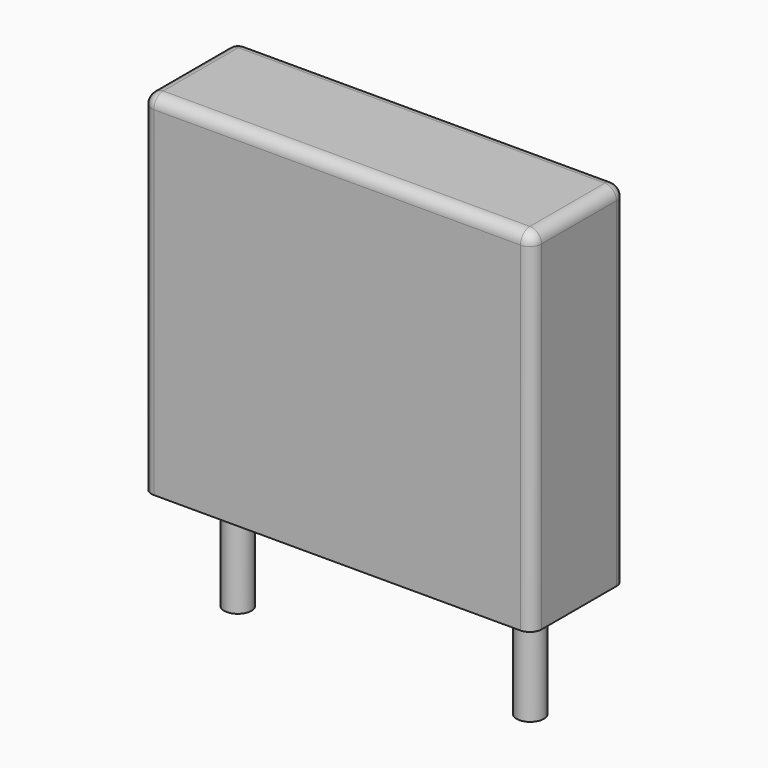
from build123d import *

# Parameters (mm, degrees)
SKETCH_W     = 10
SKETCH_H     = 3
PAD_DEPTH    = 9
FILLET_R     = 0.3
SKETCH001_R  = 0.35
PAD001_DEPTH = 3.2


with BuildPart() as fillet_body:
    # Sketch → Pad (new body)
    with BuildSketch(Plane.XY.offset(0.1)):
        with Locations((3.75, 0)):
            Rectangle(SKETCH_W, SKETCH_H)
    extrude(amount=PAD_DEPTH)

    # Fillet
    fillet_edges = [fillet_body.edges().sort_by_distance(p)[0] for p in [
        (-1.25, 0, 9.1),
        (-1.25, -1.5, 4.6),
        (3.75, -1.5, 9.1),
        (8.75, -1.5, 4.6),
        (8.75, 0, 9.1),
        (8.75, 1.5, 4.6),
        (3.75, 1.5, 9.1),
        (-1.25, 1.5, 4.6),
    ]]
    fillet(fillet_edges, radius=FILLET_R)


with BuildPart() as pad001:
    # Sketch001 → Pad001 (new body)
    with BuildSketch(Plane.XY.offset(0.5)):
        Circle(SKETCH001_R)
        with Locations((7.5, 0)):
            Circle(SKETCH001_R)
    extrude(amount=-PAD001_DEPTH)


solid = Compound([fillet_body.part, pad001.part])
